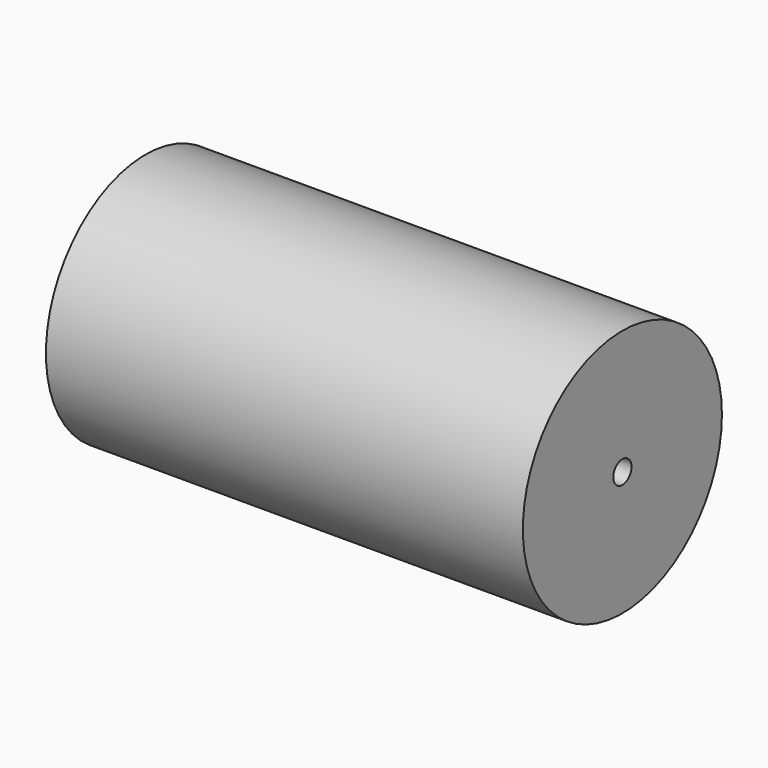
from build123d import *

# Parameters (mm, degrees)
F0_R     = 38.1
F1_DEPTH = 146.05
F3_D     = 6.985


with BuildPart() as f1:
    # F0 (on Right) → F1 (new body)
    with BuildSketch(Plane.YZ):
        Circle(F0_R)
    extrude(amount=F1_DEPTH)

    # F3 (through all)
    with Locations(Plane.YZ.offset(146.05)):
        with Locations((0, 0)):
            Hole(F3_D / 2)


solid = f1.part
